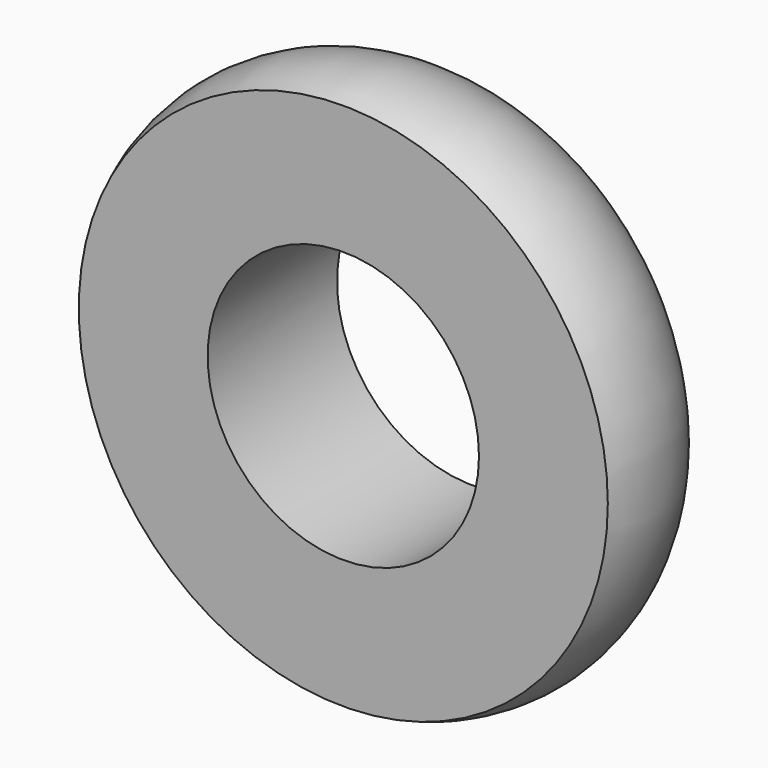
from build123d import *


with BuildPart() as f1:
    # F0 (on Top) → F1 (revolve)
    with BuildSketch(Plane.XY):
        with BuildLine():
            Line((0, 0), (44.012789, 0))
            ThreePointArc((44.012789, 0), (38.873413, 41.057505), (0, 55.234589))
            Line((0, 55.234589), (0, 0))
        make_face()
    revolve(axis=Axis((-46.344589, 11.804754, 0), (0, -1, 0)))


solid = f1.part
